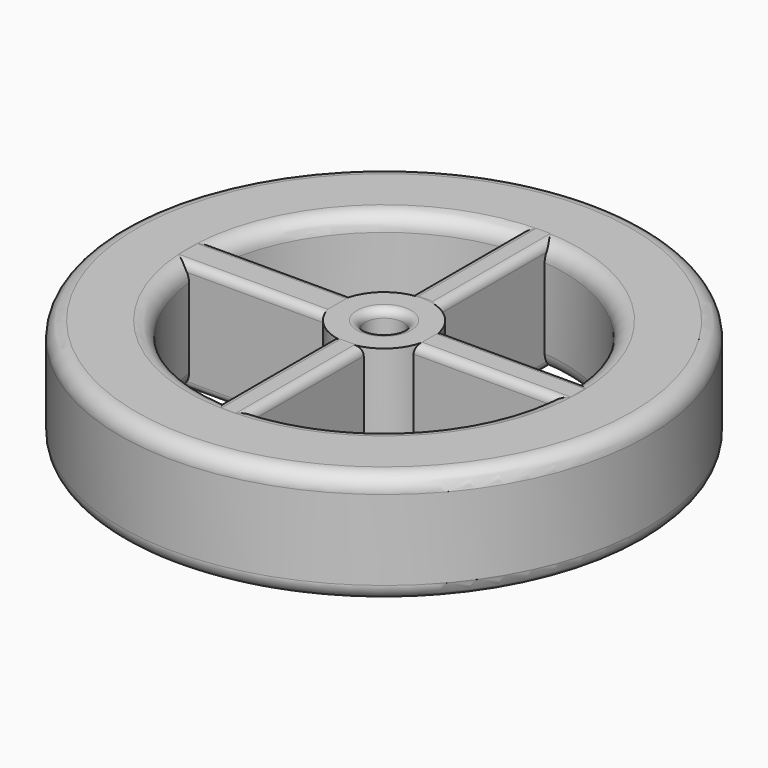
from build123d import *

# Parameters (mm, degrees)
F0_R      = 41.882728
F0_R_2    = 28.49801
F1_DEPTH  = 17.78
F2_R      = 7.579755
F2_R_2    = 3.02213
F3_DEPTH  = 17.78
F4_W      = 4.82342
F4_H      = 26.174745
F5_DEPTH  = 17.78
F6_W      = 4.78338
F6_H      = 25.849063
F7_DEPTH  = 17.78
F8_W      = 26.165055
F8_H      = 6.199041
F9_DEPTH  = 17.78
F10_W     = 26.091707
F10_H     = 5.372498
F11_DEPTH = 17.78
F12_R     = 2.54
F13_R     = 2.54
F14_R     = 1.27
F15_R     = 1.27
F16_R     = 1.27
F17_R     = 1.27
F18_R     = 1.27
F19_R     = 1.27
F20_R     = 1.27
F21_R     = 1.27
F22_R     = 1.27
F23_R     = 1.27


with BuildPart() as f1:
    # F0 (on Top) → F1 (new body)
    with BuildSketch(Plane.XY):
        Circle(F0_R)
        Circle(F0_R_2, mode=Mode.SUBTRACT)
    extrude(amount=F1_DEPTH)

    # F12
    f12_edges = [f1.edges().sort_by_distance(p)[0] for p in [
        (-41.882728, 0, 17.78),
        (-28.49801, 0, 17.78),
    ]]
    fillet(f12_edges, radius=F12_R)

    # F13
    f13_edges = [f1.edges().sort_by_distance(p)[0] for p in [
        (-41.882728, 0, 0),
        (-28.49801, 0, 0),
    ]]
    fillet(f13_edges, radius=F13_R)


with BuildPart() as f3:
    # F2 (on Top) → F3 (new body)
    with BuildSketch(Plane.XY):
        Circle(F2_R)
        Circle(F2_R_2, mode=Mode.SUBTRACT)
    extrude(amount=F3_DEPTH)

    # F22
    f22_edges = [f3.edges().sort_by_distance(p)[0] for p in [
        (-3.02213, 0, 17.78),
    ]]
    fillet(f22_edges, radius=F22_R)

    # F23
    f23_edges = [f3.edges().sort_by_distance(p)[0] for p in [
        (-3.02213, 0, 0),
    ]]
    fillet(f23_edges, radius=F23_R)


with BuildPart() as f5:
    # F4 (on Top) → F5 (new body)
    with BuildSketch(Plane.XY):
        with Locations((0.08736, -19.133176)):
            Rectangle(F4_W, F4_H)
    extrude(amount=F5_DEPTH)

    # F18
    f18_edges = [f5.edges().sort_by_distance(p)[0] for p in [
        (0.08736, -32.220548, 17.78),
        (2.49907, -19.133176, 17.78),
        (0.08736, -6.045803, 17.78),
        (-2.32435, -19.133176, 17.78),
    ]]
    fillet(f18_edges, radius=F18_R)

    # F19
    f19_edges = [f5.edges().sort_by_distance(p)[0] for p in [
        (0.08736, -32.220548, 0),
        (2.49907, -19.133176, 0),
        (0.08736, -6.045803, 0),
        (-2.32435, -19.133176, 0),
    ]]
    fillet(f19_edges, radius=F19_R)


with BuildPart() as f7:
    # F6 (on Top) → F7 (new body)
    with BuildSketch(Plane.XY):
        with Locations((0.413689, 19.405292)):
            Rectangle(F6_W, F6_H)
    extrude(amount=F7_DEPTH)

    # F16
    f16_edges = [f7.edges().sort_by_distance(p)[0] for p in [
        (0.413689, 6.480761, 17.78),
        (2.805379, 19.405292, 17.78),
        (0.413689, 32.329824, 17.78),
        (-1.978001, 19.405292, 17.78),
    ]]
    fillet(f16_edges, radius=F16_R)

    # F17
    f17_edges = [f7.edges().sort_by_distance(p)[0] for p in [
        (0.413689, 6.480761, 0),
        (2.805379, 19.405292, 0),
        (0.413689, 32.329824, 0),
        (-1.978001, 19.405292, 0),
    ]]
    fillet(f17_edges, radius=F17_R)


with BuildPart() as f9:
    # F8 (on Top) → F9 (new body)
    with BuildSketch(Plane.XY):
        with Locations((-19.114621, -0.206636)):
            Rectangle(F8_W, F8_H)
    extrude(amount=F9_DEPTH)

    # F14
    f14_edges = [f9.edges().sort_by_distance(p)[0] for p in [
        (-6.032093, -0.206636, 17.78),
        (-19.11462, 2.892884, 17.78),
        (-32.197148, -0.206636, 17.78),
        (-19.11462, -3.306157, 17.78),
    ]]
    fillet(f14_edges, radius=F14_R)

    # F15
    f15_edges = [f9.edges().sort_by_distance(p)[0] for p in [
        (-6.032093, -0.206636, 0),
        (-19.11462, 2.892884, 0),
        (-32.197148, -0.206636, 0),
        (-19.11462, -3.306157, 0),
    ]]
    fillet(f15_edges, radius=F15_R)


with BuildPart() as f11:
    # F10 (on Top) → F11 (new body)
    with BuildSketch(Plane.XY):
        with Locations((19.12753, -0.206634)):
            Rectangle(F10_W, F10_H)
    extrude(amount=F11_DEPTH)

    # F20
    f20_edges = [f11.edges().sort_by_distance(p)[0] for p in [
        (19.127531, 2.479615, 0),
        (6.081677, -0.206634, 0),
        (19.127531, -2.892883, 0),
        (32.173384, -0.206634, 0),
    ]]
    fillet(f20_edges, radius=F20_R)

    # F21
    f21_edges = [f11.edges().sort_by_distance(p)[0] for p in [
        (19.127531, 2.479615, 17.78),
        (6.081677, -0.206634, 17.78),
        (19.127531, -2.892883, 17.78),
        (32.173384, -0.206634, 17.78),
    ]]
    fillet(f21_edges, radius=F21_R)


solid = Compound([f1.part, f3.part, f5.part, f7.part, f9.part, f11.part])
